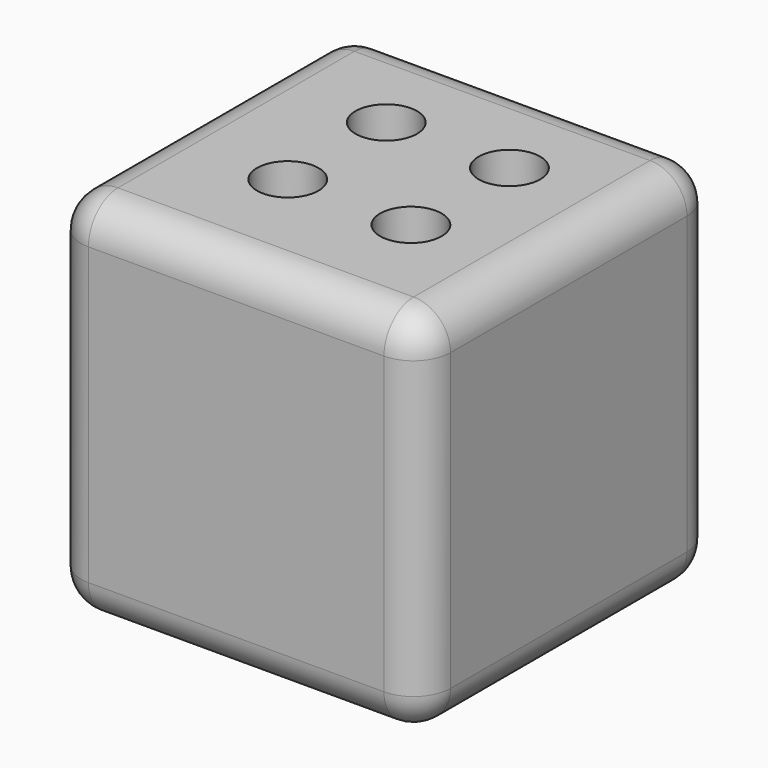
from build123d import *

# Parameters (mm, degrees)
F0_W     = 76.2
F0_H     = 76.2
F1_DEPTH = 76.2
F2_R     = 7.62
F3_R     = 6.35
F4_DEPTH = 12.7


with BuildPart() as f1:
    # F0 (on Top) → F1 (new body)
    with BuildSketch(Plane.XY):
        with Locations((-1.715615, -1.615871)):
            Rectangle(F0_W, F0_H)
    extrude(amount=F1_DEPTH)

    # F2
    f2_edges = [f1.edges().sort_by_distance(p)[0] for p in [
        (-39.815615, -1.615871, 76.2),
        (-1.715615, -39.715871, 76.2),
        (-39.815615, -39.715871, 38.1),
        (-39.815615, -1.615871, 0),
        (-1.715615, -39.715871, 0),
        (36.384385, -39.715871, 38.1),
        (-39.815615, 36.484129, 38.1),
        (-1.715615, 36.484129, 76.2),
        (-1.715615, 36.484129, 0),
        (36.384385, 36.484129, 38.1),
        (36.384385, -1.615871, 0),
        (36.384385, -1.615871, 76.2),
    ]]
    fillet(f2_edges, radius=F2_R)

    # F3 (on face) → F4 (cut)
    with BuildSketch(Plane.XY.offset(76.2)):
        with Locations((-12.7, 12.7)):
            Circle(F3_R)
        with Locations((-12.7, -12.7)):
            Circle(F3_R)
        with Locations((12.7, 12.7)):
            Circle(F3_R)
        with Locations((12.7, -12.7)):
            Circle(F3_R)
    extrude(amount=-F4_DEPTH, mode=Mode.SUBTRACT)


solid = f1.part
